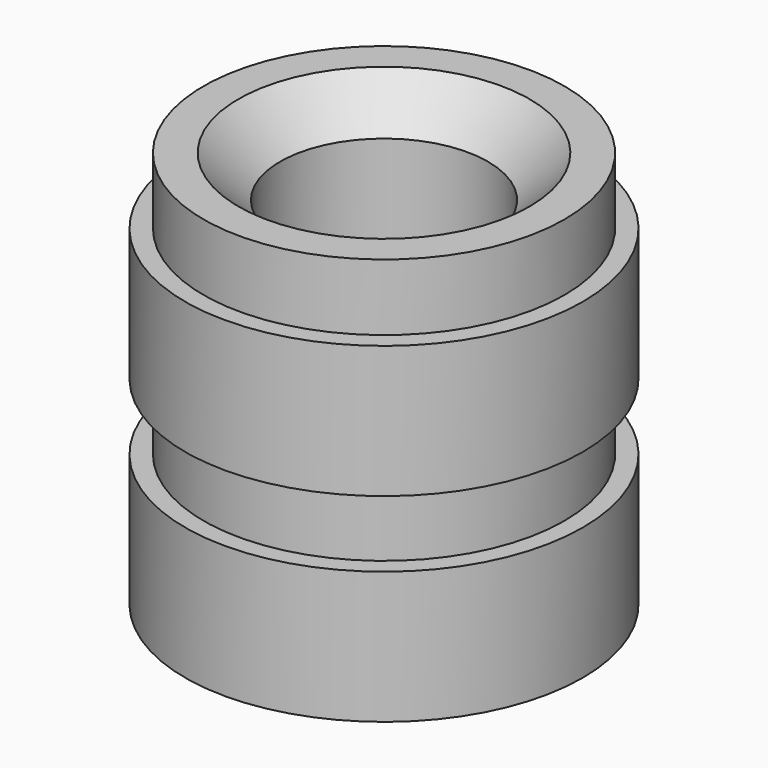
from build123d import *

# Parameters (mm, degrees)
F3_SIZE = 0.5


with BuildPart() as f2:
    # F0 (on Front) → F2 (revolve)
    with BuildSketch(Plane.XZ):
        Polygon((0, 0.575478), (0, 0), (2.39, 0), (2.39, 1.59), (2.17, 1.59), (2.17, 2.39), (2.39, 2.39), (2.39, 3.98), (2.17, 3.98), (2.17, 4.78), (1.25, 4.78), (1.25, 0.575478), align=None)
    revolve(axis=Axis((0, 0, 2.39), (0, 0, 1)))

    # F3
    f3_edges = [f2.edges().sort_by_distance(p)[0] for p in [
        (-1.25, 0, 4.78),
    ]]
    chamfer(f3_edges, length=F3_SIZE)


solid = f2.part
